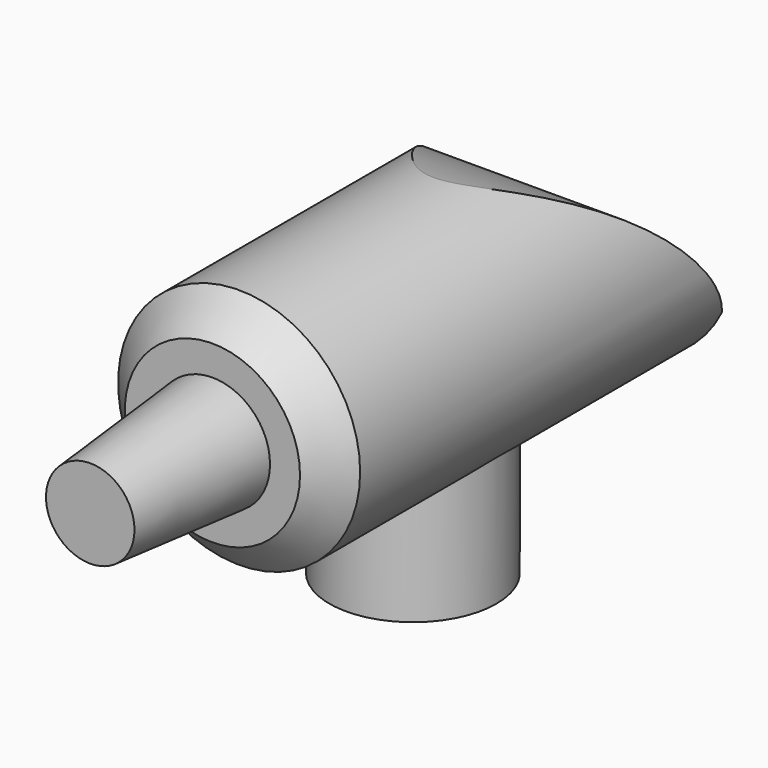
from build123d import *

# Parameters (mm, degrees)
F0_R     = 2.5
F1_DEPTH = 7
F2_R     = 3.6213085246
F3_DEPTH = 7.5
F5_DEPTH = 12.5
F6_SIZE  = 1
F7_R     = 1.7235477432
F8_DEPTH = 4.57
F8_TAPER = 5


with BuildPart() as f1:
    # F0 (on Top) → F1 (new body)
    with BuildSketch(Plane.XY):
        Circle(F0_R)
    extrude(amount=F1_DEPTH)

    # F2 (on Front) → F3 (join, symmetric)
    with BuildSketch(Plane.XZ):
        with Locations((0, 6.4717903733)):
            Circle(F2_R)
    extrude(amount=F3_DEPTH, both=True)

    # F4 (on Right) → F5 (cut, symmetric)
    with BuildSketch(Plane.YZ):
        with BuildLine():
            ThreePointArc((0, 10.2597363293), (4.7557858598, 8.1323980884), (7.9216584563, 3.9947275072))
            Line((7.9216584563, 3.9947275072), (7.9610617831, 10.2597363293))
            Line((7.9610617831, 10.2597363293), (0, 10.2597363293))
        make_face()
    extrude(amount=F5_DEPTH, both=True, mode=Mode.SUBTRACT)

    # F6
    f6_edges = [f1.edges().sort_by_distance(p)[0] for p in [
        (-3.621309, -7.5, 6.47179),
    ]]
    chamfer(f6_edges, length=F6_SIZE)

    # F7 (on face) → F8 (join)
    with BuildSketch(Plane.XZ.offset(7.5)):
        with Locations((0, 6.4717903733)):
            Circle(F7_R)
    extrude(amount=F8_DEPTH, taper=F8_TAPER)


solid = f1.part
